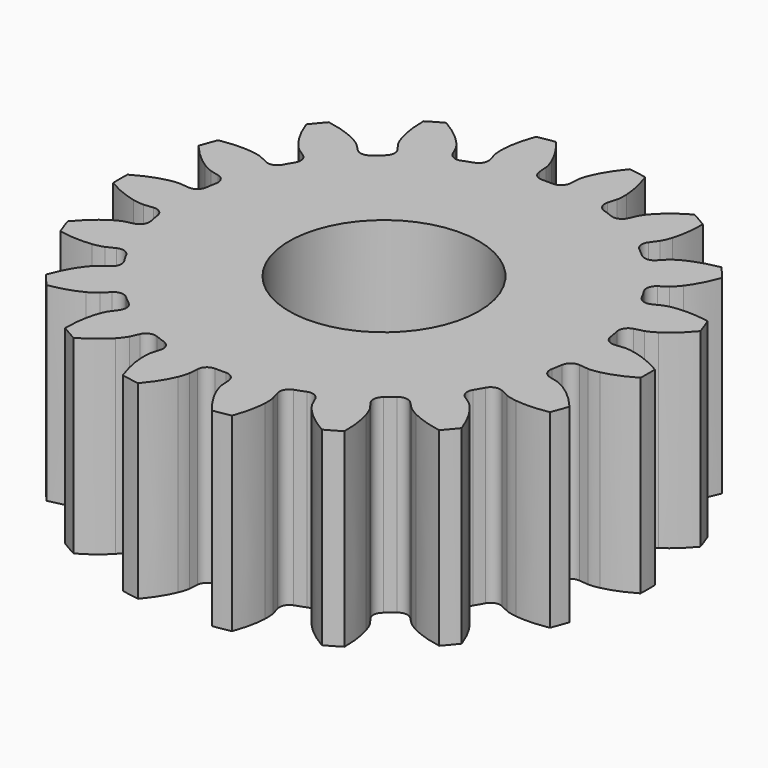
from build123d import *

# Parameters (mm, degrees)
CYLINDER001_R     = 5
CYLINDER001_DEPTH = 10
PAD001_DEPTH      = 10


with BuildPart() as cylinder001:
    # Cylinder001 → Cylinder001 (new body)
    with BuildSketch(Plane.XY):
        Circle(CYLINDER001_R)
    extrude(amount=CYLINDER001_DEPTH)


with BuildPart() as cut001:
    # InvoluteGear001 → Pad001 (new body)
    with BuildSketch(Plane.XY):
        with BuildLine():
            Line((11.222882, -1.150658), (11.718405, -1.200406))
            add(Edge.make_bspline(
                [(11.718405, -1.200406), (11.78192, -1.202844), (11.973014, -1.202137), (12.292176, -1.132224)],
                knots=[0, 0, 0, 0, 1, 1, 1, 1], degree=3))
            add(Edge.make_bspline(
                [(12.292176, -1.132224), (12.673656, -1.047243), (13.221634, -0.864168), (13.893524, -0.473052)],
                knots=[0, 0, 0, 0, 1, 1, 1, 1], degree=3))
            ThreePointArc((13.893524, -0.473052), (13.901576, 0), (13.893524, 0.473052))
            add(Edge.make_bspline(
                [(13.893524, 0.473052), (13.221634, 0.864168), (12.673656, 1.047243), (12.292176, 1.132224)],
                knots=[0, 0, 0, 0, 1, 1, 1, 1], degree=3))
            add(Edge.make_bspline(
                [(12.292176, 1.132224), (11.973014, 1.202137), (11.78192, 1.202844), (11.718405, 1.200406)],
                knots=[0, 0, 0, 0, 1, 1, 1, 1], degree=3))
            Line((11.718405, 1.200406), (11.222882, 1.150658))
            ThreePointArc((11.222882, 1.150658), (10.850281, 1.257289), (10.654271, 1.591627))
            ThreePointArc((10.654271, 1.591627), (10.608842, 1.870625), (10.556108, 2.148335))
            ThreePointArc((10.556108, 2.148335), (10.625947, 2.529549), (10.939607, 2.757187))
            Line((10.939607, 2.757187), (11.422262, 2.879918))
            add(Edge.make_bspline(
                [(11.422262, 2.879918), (11.48278, 2.899351), (11.662108, 2.965373), (11.93811, 3.14023)],
                knots=[0, 0, 0, 0, 1, 1, 1, 1], degree=3))
            add(Edge.make_bspline(
                [(11.93811, 3.14023), (12.26752, 3.350559), (12.719835, 3.710013), (13.217436, 4.307341)],
                knots=[0, 0, 0, 0, 1, 1, 1, 1], degree=3))
            ThreePointArc((13.217436, 4.307341), (13.063209, 4.754619), (12.893849, 5.196389))
            add(Edge.make_bspline(
                [(12.893849, 5.196389), (12.128709, 5.334117), (11.551163, 5.318733), (11.163623, 5.268114)],
                knots=[0, 0, 0, 0, 1, 1, 1, 1], degree=3))
            add(Edge.make_bspline(
                [(11.163623, 5.268114), (10.839798, 5.224651), (10.659986, 5.159957), (10.601135, 5.135943)],
                knots=[0, 0, 0, 0, 1, 1, 1, 1], degree=3))
            Line((10.601135, 5.135943), (10.152511, 4.919716))
            ThreePointArc((10.152511, 4.919716), (9.765911, 4.89248), (9.467371, 5.139615))
            ThreePointArc((9.467371, 5.139615), (9.329259, 5.38625), (9.184723, 5.629176))
            ThreePointArc((9.184723, 5.629176), (9.119967, 6.011287), (9.336855, 6.332474))
            Line((9.336855, 6.332474), (9.748425, 6.612881))
            add(Edge.make_bspline(
                [(9.748425, 6.612881), (9.798647, 6.65184), (9.944579, 6.775215), (10.144132, 7.033925)],
                knots=[0, 0, 0, 0, 1, 1, 1, 1], degree=3))
            add(Edge.make_bspline(
                [(10.144132, 7.033925), (10.381739, 7.344234), (10.683836, 7.836712), (10.947129, 8.568206)],
                knots=[0, 0, 0, 0, 1, 1, 1, 1], degree=3))
            ThreePointArc((10.947129, 8.568206), (10.649225, 8.935761), (10.338985, 9.292964))
            add(Edge.make_bspline(
                [(10.338985, 9.292964), (9.572883, 9.160694), (9.035429, 8.948704), (8.688574, 8.768592)],
                knots=[0, 0, 0, 0, 1, 1, 1, 1], degree=3))
            add(Edge.make_bspline(
                [(8.688574, 8.768592), (8.399142, 8.616995), (8.252301, 8.494704), (8.205213, 8.45201)],
                knots=[0, 0, 0, 0, 1, 1, 1, 1], degree=3))
            Line((8.205213, 8.45201), (7.857597, 8.095384))
            ThreePointArc((7.857597, 8.095384), (7.503627, 7.937566), (7.138567, 8.06769))
            ThreePointArc((7.138567, 8.06769), (6.92443, 8.252214), (6.705524, 8.431056))
            ThreePointArc((6.705524, 8.431056), (6.513985, 8.767974), (6.60794, 9.143972))
            Line((6.60794, 9.143972), (6.898785, 9.548233))
            add(Edge.make_bspline(
                [(6.898785, 9.548233), (6.932653, 9.60202), (7.027588, 9.767866), (7.126622, 10.079225)],
                knots=[0, 0, 0, 0, 1, 1, 1, 1], degree=3))
            add(Edge.make_bspline(
                [(7.126622, 10.079225), (7.243768, 10.452087), (7.359208, 11.018187), (7.356438, 11.795619)],
                knots=[0, 0, 0, 0, 1, 1, 1, 1], degree=3))
            ThreePointArc((7.356438, 11.795619), (6.950788, 12.039118), (6.537087, 12.268671))
            add(Edge.make_bspline(
                [(6.537087, 12.268671), (5.862426, 11.882355), (5.429889, 11.49933), (5.165553, 11.211448)],
                knots=[0, 0, 0, 0, 1, 1, 1, 1], degree=3))
            add(Edge.make_bspline(
                [(5.165553, 11.211448), (4.945426, 10.970002), (4.849267, 10.804864), (4.81962, 10.748639)],
                knots=[0, 0, 0, 0, 1, 1, 1, 1], degree=3))
            Line((4.81962, 10.748639), (4.614942, 10.29463))
            ThreePointArc((4.614942, 10.29463), (4.336296, 10.025264), (3.948746, 10.022682))
            ThreePointArc((3.948746, 10.022682), (3.684412, 10.122839), (3.417541, 10.216025))
            ThreePointArc((3.417541, 10.216025), (3.12232, 10.467115), (3.08201, 10.852571))
            Line((3.08201, 10.852571), (3.217049, 11.331928))
            add(Edge.make_bspline(
                [(3.217049, 11.331928), (3.230479, 11.394054), (3.262966, 11.582368), (3.249536, 11.908821)],
                knots=[0, 0, 0, 0, 1, 1, 1, 1], degree=3))
            add(Edge.make_bspline(
                [(3.249536, 11.908821), (3.232091, 12.299263), (3.146952, 12.870707), (2.878451, 13.600306)],
                knots=[0, 0, 0, 0, 1, 1, 1, 1], degree=3))
            ThreePointArc((2.878451, 13.600306), (2.413983, 13.69038), (1.94672, 13.764595))
            add(Edge.make_bspline(
                [(1.94672, 13.764595), (1.444873, 13.170829), (1.169424, 12.662967), (1.019491, 12.302038)],
                knots=[0, 0, 0, 0, 1, 1, 1, 1], degree=3))
            add(Edge.make_bspline(
                [(1.019491, 12.302038), (0.895218, 11.999866), (0.861339, 11.811798), (0.85271, 11.748824)],
                knots=[0, 0, 0, 0, 1, 1, 1, 1], degree=3))
            Line((0.85271, 11.748824), (0.815656, 11.252191))
            ThreePointArc((0.815656, 11.252191), (0.645943, 10.903767), (0.282648, 10.768791))
            ThreePointArc((0.282648, 10.768791), (0, 10.7725), (-0.282648, 10.768791))
            ThreePointArc((-0.282648, 10.768791), (-0.645943, 10.903767), (-0.815656, 11.252191))
            Line((-0.815656, 11.252191), (-0.85271, 11.748824))
            add(Edge.make_bspline(
                [(-0.85271, 11.748824), (-0.861339, 11.811798), (-0.895218, 11.999866), (-1.019491, 12.302038)],
                knots=[0, 0, 0, 0, 1, 1, 1, 1], degree=3))
            add(Edge.make_bspline(
                [(-1.019491, 12.302038), (-1.169424, 12.662967), (-1.444873, 13.170829), (-1.94672, 13.764595)],
                knots=[0, 0, 0, 0, 1, 1, 1, 1], degree=3))
            ThreePointArc((-1.94672, 13.764595), (-2.413983, 13.69038), (-2.878451, 13.600306))
            add(Edge.make_bspline(
                [(-2.878451, 13.600306), (-3.146952, 12.870707), (-3.232091, 12.299263), (-3.249536, 11.908821)],
                knots=[0, 0, 0, 0, 1, 1, 1, 1], degree=3))
            add(Edge.make_bspline(
                [(-3.249536, 11.908821), (-3.262966, 11.582368), (-3.230479, 11.394054), (-3.217049, 11.331928)],
                knots=[0, 0, 0, 0, 1, 1, 1, 1], degree=3))
            Line((-3.217049, 11.331928), (-3.08201, 10.852571))
            ThreePointArc((-3.08201, 10.852571), (-3.12232, 10.467115), (-3.417541, 10.216025))
            ThreePointArc((-3.417541, 10.216025), (-3.684412, 10.122839), (-3.948746, 10.022682))
            ThreePointArc((-3.948746, 10.022682), (-4.336296, 10.025264), (-4.614942, 10.29463))
            Line((-4.614942, 10.29463), (-4.81962, 10.748639))
            add(Edge.make_bspline(
                [(-4.81962, 10.748639), (-4.849267, 10.804864), (-4.945426, 10.970002), (-5.165553, 11.211448)],
                knots=[0, 0, 0, 0, 1, 1, 1, 1], degree=3))
            add(Edge.make_bspline(
                [(-5.165553, 11.211448), (-5.429889, 11.49933), (-5.862426, 11.882355), (-6.537087, 12.268671)],
                knots=[0, 0, 0, 0, 1, 1, 1, 1], degree=3))
            ThreePointArc((-6.537087, 12.268671), (-6.950788, 12.039118), (-7.356438, 11.795619))
            add(Edge.make_bspline(
                [(-7.356438, 11.795619), (-7.359208, 11.018187), (-7.243768, 10.452087), (-7.126622, 10.079225)],
                knots=[0, 0, 0, 0, 1, 1, 1, 1], degree=3))
            add(Edge.make_bspline(
                [(-7.126622, 10.079225), (-7.027588, 9.767866), (-6.932653, 9.60202), (-6.898785, 9.548233)],
                knots=[0, 0, 0, 0, 1, 1, 1, 1], degree=3))
            Line((-6.898785, 9.548233), (-6.60794, 9.143972))
            ThreePointArc((-6.60794, 9.143972), (-6.513985, 8.767974), (-6.705524, 8.431056))
            ThreePointArc((-6.705524, 8.431056), (-6.92443, 8.252214), (-7.138567, 8.06769))
            ThreePointArc((-7.138567, 8.06769), (-7.503627, 7.937566), (-7.857597, 8.095384))
            Line((-7.857597, 8.095384), (-8.205213, 8.45201))
            add(Edge.make_bspline(
                [(-8.205213, 8.45201), (-8.252301, 8.494704), (-8.399142, 8.616995), (-8.688574, 8.768592)],
                knots=[0, 0, 0, 0, 1, 1, 1, 1], degree=3))
            add(Edge.make_bspline(
                [(-8.688574, 8.768592), (-9.035429, 8.948704), (-9.572883, 9.160694), (-10.338985, 9.292964)],
                knots=[0, 0, 0, 0, 1, 1, 1, 1], degree=3))
            ThreePointArc((-10.338985, 9.292964), (-10.649225, 8.935761), (-10.947129, 8.568206))
            add(Edge.make_bspline(
                [(-10.947129, 8.568206), (-10.683836, 7.836712), (-10.381739, 7.344234), (-10.144132, 7.033925)],
                knots=[0, 0, 0, 0, 1, 1, 1, 1], degree=3))
            add(Edge.make_bspline(
                [(-10.144132, 7.033925), (-9.944579, 6.775215), (-9.798647, 6.65184), (-9.748425, 6.612881)],
                knots=[0, 0, 0, 0, 1, 1, 1, 1], degree=3))
            Line((-9.748425, 6.612881), (-9.336855, 6.332474))
            ThreePointArc((-9.336855, 6.332474), (-9.119967, 6.011287), (-9.184723, 5.629176))
            ThreePointArc((-9.184723, 5.629176), (-9.329259, 5.38625), (-9.467371, 5.139615))
            ThreePointArc((-9.467371, 5.139615), (-9.765911, 4.89248), (-10.152511, 4.919716))
            Line((-10.152511, 4.919716), (-10.601135, 5.135943))
            add(Edge.make_bspline(
                [(-10.601135, 5.135943), (-10.659986, 5.159957), (-10.839798, 5.224651), (-11.163623, 5.268114)],
                knots=[0, 0, 0, 0, 1, 1, 1, 1], degree=3))
            add(Edge.make_bspline(
                [(-11.163623, 5.268114), (-11.551163, 5.318733), (-12.128709, 5.334117), (-12.893849, 5.196389)],
                knots=[0, 0, 0, 0, 1, 1, 1, 1], degree=3))
            ThreePointArc((-12.893849, 5.196389), (-13.063209, 4.754619), (-13.217436, 4.307341))
            add(Edge.make_bspline(
                [(-13.217436, 4.307341), (-12.719835, 3.710013), (-12.26752, 3.350559), (-11.93811, 3.14023)],
                knots=[0, 0, 0, 0, 1, 1, 1, 1], degree=3))
            add(Edge.make_bspline(
                [(-11.93811, 3.14023), (-11.662108, 2.965373), (-11.48278, 2.899351), (-11.422262, 2.879918)],
                knots=[0, 0, 0, 0, 1, 1, 1, 1], degree=3))
            Line((-11.422262, 2.879918), (-10.939607, 2.757187))
            ThreePointArc((-10.939607, 2.757187), (-10.625947, 2.529549), (-10.556108, 2.148335))
            ThreePointArc((-10.556108, 2.148335), (-10.608842, 1.870625), (-10.654271, 1.591627))
            ThreePointArc((-10.654271, 1.591627), (-10.850281, 1.257289), (-11.222882, 1.150658))
            Line((-11.222882, 1.150658), (-11.718405, 1.200406))
            add(Edge.make_bspline(
                [(-11.718405, 1.200406), (-11.78192, 1.202844), (-11.973014, 1.202137), (-12.292176, 1.132224)],
                knots=[0, 0, 0, 0, 1, 1, 1, 1], degree=3))
            add(Edge.make_bspline(
                [(-12.292176, 1.132224), (-12.673656, 1.047243), (-13.221634, 0.864168), (-13.893524, 0.473052)],
                knots=[0, 0, 0, 0, 1, 1, 1, 1], degree=3))
            ThreePointArc((-13.893524, 0.473052), (-13.901576, 0), (-13.893524, -0.473052))
            add(Edge.make_bspline(
                [(-13.893524, -0.473052), (-13.221634, -0.864168), (-12.673656, -1.047243), (-12.292176, -1.132224)],
                knots=[0, 0, 0, 0, 1, 1, 1, 1], degree=3))
            add(Edge.make_bspline(
                [(-12.292176, -1.132224), (-11.973014, -1.202137), (-11.78192, -1.202844), (-11.718405, -1.200406)],
                knots=[0, 0, 0, 0, 1, 1, 1, 1], degree=3))
            Line((-11.718405, -1.200406), (-11.222882, -1.150658))
            ThreePointArc((-11.222882, -1.150658), (-10.850281, -1.257289), (-10.654271, -1.591627))
            ThreePointArc((-10.654271, -1.591627), (-10.608842, -1.870625), (-10.556108, -2.148335))
            ThreePointArc((-10.556108, -2.148335), (-10.625947, -2.529549), (-10.939607, -2.757187))
            Line((-10.939607, -2.757187), (-11.422262, -2.879918))
            add(Edge.make_bspline(
                [(-11.422262, -2.879918), (-11.48278, -2.899351), (-11.662108, -2.965373), (-11.93811, -3.14023)],
                knots=[0, 0, 0, 0, 1, 1, 1, 1], degree=3))
            add(Edge.make_bspline(
                [(-11.93811, -3.14023), (-12.26752, -3.350559), (-12.719835, -3.710013), (-13.217436, -4.307341)],
                knots=[0, 0, 0, 0, 1, 1, 1, 1], degree=3))
            ThreePointArc((-13.217436, -4.307341), (-13.063209, -4.754619), (-12.893849, -5.196389))
            add(Edge.make_bspline(
                [(-12.893849, -5.196389), (-12.128709, -5.334117), (-11.551163, -5.318733), (-11.163623, -5.268114)],
                knots=[0, 0, 0, 0, 1, 1, 1, 1], degree=3))
            add(Edge.make_bspline(
                [(-11.163623, -5.268114), (-10.839798, -5.224651), (-10.659986, -5.159957), (-10.601135, -5.135943)],
                knots=[0, 0, 0, 0, 1, 1, 1, 1], degree=3))
            Line((-10.601135, -5.135943), (-10.152511, -4.919716))
            ThreePointArc((-10.152511, -4.919716), (-9.765911, -4.89248), (-9.467371, -5.139615))
            ThreePointArc((-9.467371, -5.139615), (-9.329259, -5.38625), (-9.184723, -5.629176))
            ThreePointArc((-9.184723, -5.629176), (-9.119967, -6.011287), (-9.336855, -6.332474))
            Line((-9.336855, -6.332474), (-9.748425, -6.612881))
            add(Edge.make_bspline(
                [(-9.748425, -6.612881), (-9.798647, -6.65184), (-9.944579, -6.775215), (-10.144132, -7.033925)],
                knots=[0, 0, 0, 0, 1, 1, 1, 1], degree=3))
            add(Edge.make_bspline(
                [(-10.144132, -7.033925), (-10.381739, -7.344234), (-10.683836, -7.836712), (-10.947129, -8.568206)],
                knots=[0, 0, 0, 0, 1, 1, 1, 1], degree=3))
            ThreePointArc((-10.947129, -8.568206), (-10.649225, -8.935761), (-10.338985, -9.292964))
            add(Edge.make_bspline(
                [(-10.338985, -9.292964), (-9.572883, -9.160694), (-9.035429, -8.948704), (-8.688574, -8.768592)],
                knots=[0, 0, 0, 0, 1, 1, 1, 1], degree=3))
            add(Edge.make_bspline(
                [(-8.688574, -8.768592), (-8.399142, -8.616995), (-8.252301, -8.494704), (-8.205213, -8.45201)],
                knots=[0, 0, 0, 0, 1, 1, 1, 1], degree=3))
            Line((-8.205213, -8.45201), (-7.857597, -8.095384))
            ThreePointArc((-7.857597, -8.095384), (-7.503627, -7.937566), (-7.138567, -8.06769))
            ThreePointArc((-7.138567, -8.06769), (-6.92443, -8.252214), (-6.705524, -8.431056))
            ThreePointArc((-6.705524, -8.431056), (-6.513985, -8.767974), (-6.60794, -9.143972))
            Line((-6.60794, -9.143972), (-6.898785, -9.548233))
            add(Edge.make_bspline(
                [(-6.898785, -9.548233), (-6.932653, -9.60202), (-7.027588, -9.767866), (-7.126622, -10.079225)],
                knots=[0, 0, 0, 0, 1, 1, 1, 1], degree=3))
            add(Edge.make_bspline(
                [(-7.126622, -10.079225), (-7.243768, -10.452087), (-7.359208, -11.018187), (-7.356438, -11.795619)],
                knots=[0, 0, 0, 0, 1, 1, 1, 1], degree=3))
            ThreePointArc((-7.356438, -11.795619), (-6.950788, -12.039118), (-6.537087, -12.268671))
            add(Edge.make_bspline(
                [(-6.537087, -12.268671), (-5.862426, -11.882355), (-5.429889, -11.49933), (-5.165553, -11.211448)],
                knots=[0, 0, 0, 0, 1, 1, 1, 1], degree=3))
            add(Edge.make_bspline(
                [(-5.165553, -11.211448), (-4.945426, -10.970002), (-4.849267, -10.804864), (-4.81962, -10.748639)],
                knots=[0, 0, 0, 0, 1, 1, 1, 1], degree=3))
            Line((-4.81962, -10.748639), (-4.614942, -10.29463))
            ThreePointArc((-4.614942, -10.29463), (-4.336296, -10.025264), (-3.948746, -10.022682))
            ThreePointArc((-3.948746, -10.022682), (-3.684412, -10.122839), (-3.417541, -10.216025))
            ThreePointArc((-3.417541, -10.216025), (-3.12232, -10.467115), (-3.08201, -10.852571))
            Line((-3.08201, -10.852571), (-3.217049, -11.331928))
            add(Edge.make_bspline(
                [(-3.217049, -11.331928), (-3.230479, -11.394054), (-3.262966, -11.582368), (-3.249536, -11.908821)],
                knots=[0, 0, 0, 0, 1, 1, 1, 1], degree=3))
            add(Edge.make_bspline(
                [(-3.249536, -11.908821), (-3.232091, -12.299263), (-3.146952, -12.870707), (-2.878451, -13.600306)],
                knots=[0, 0, 0, 0, 1, 1, 1, 1], degree=3))
            ThreePointArc((-2.878451, -13.600306), (-2.413983, -13.69038), (-1.94672, -13.764595))
            add(Edge.make_bspline(
                [(-1.94672, -13.764595), (-1.444873, -13.170829), (-1.169424, -12.662967), (-1.019491, -12.302038)],
                knots=[0, 0, 0, 0, 1, 1, 1, 1], degree=3))
            add(Edge.make_bspline(
                [(-1.019491, -12.302038), (-0.895218, -11.999866), (-0.861339, -11.811798), (-0.85271, -11.748824)],
                knots=[0, 0, 0, 0, 1, 1, 1, 1], degree=3))
            Line((-0.85271, -11.748824), (-0.815656, -11.252191))
            ThreePointArc((-0.815656, -11.252191), (-0.645943, -10.903767), (-0.282648, -10.768791))
            ThreePointArc((-0.282648, -10.768791), (0, -10.7725), (0.282648, -10.768791))
            ThreePointArc((0.282648, -10.768791), (0.645943, -10.903767), (0.815656, -11.252191))
            Line((0.815656, -11.252191), (0.85271, -11.748824))
            add(Edge.make_bspline(
                [(0.85271, -11.748824), (0.861339, -11.811798), (0.895218, -11.999866), (1.019491, -12.302038)],
                knots=[0, 0, 0, 0, 1, 1, 1, 1], degree=3))
            add(Edge.make_bspline(
                [(1.019491, -12.302038), (1.169424, -12.662967), (1.444873, -13.170829), (1.94672, -13.764595)],
                knots=[0, 0, 0, 0, 1, 1, 1, 1], degree=3))
            ThreePointArc((1.94672, -13.764595), (2.413983, -13.69038), (2.878451, -13.600306))
            add(Edge.make_bspline(
                [(2.878451, -13.600306), (3.146952, -12.870707), (3.232091, -12.299263), (3.249536, -11.908821)],
                knots=[0, 0, 0, 0, 1, 1, 1, 1], degree=3))
            add(Edge.make_bspline(
                [(3.249536, -11.908821), (3.262966, -11.582368), (3.230479, -11.394054), (3.217049, -11.331928)],
                knots=[0, 0, 0, 0, 1, 1, 1, 1], degree=3))
            Line((3.217049, -11.331928), (3.08201, -10.852571))
            ThreePointArc((3.08201, -10.852571), (3.12232, -10.467115), (3.417541, -10.216025))
            ThreePointArc((3.417541, -10.216025), (3.684412, -10.122839), (3.948746, -10.022682))
            ThreePointArc((3.948746, -10.022682), (4.336296, -10.025264), (4.614942, -10.29463))
            Line((4.614942, -10.29463), (4.81962, -10.748639))
            add(Edge.make_bspline(
                [(4.81962, -10.748639), (4.849267, -10.804864), (4.945426, -10.970002), (5.165553, -11.211448)],
                knots=[0, 0, 0, 0, 1, 1, 1, 1], degree=3))
            add(Edge.make_bspline(
                [(5.165553, -11.211448), (5.429889, -11.49933), (5.862426, -11.882355), (6.537087, -12.268671)],
                knots=[0, 0, 0, 0, 1, 1, 1, 1], degree=3))
            ThreePointArc((6.537087, -12.268671), (6.950788, -12.039118), (7.356438, -11.795619))
            add(Edge.make_bspline(
                [(7.356438, -11.795619), (7.359208, -11.018187), (7.243768, -10.452087), (7.126622, -10.079225)],
                knots=[0, 0, 0, 0, 1, 1, 1, 1], degree=3))
            add(Edge.make_bspline(
                [(7.126622, -10.079225), (7.027588, -9.767866), (6.932653, -9.60202), (6.898785, -9.548233)],
                knots=[0, 0, 0, 0, 1, 1, 1, 1], degree=3))
            Line((6.898785, -9.548233), (6.60794, -9.143972))
            ThreePointArc((6.60794, -9.143972), (6.513985, -8.767974), (6.705524, -8.431056))
            ThreePointArc((6.705524, -8.431056), (6.92443, -8.252214), (7.138567, -8.06769))
            ThreePointArc((7.138567, -8.06769), (7.503627, -7.937566), (7.857597, -8.095384))
            Line((7.857597, -8.095384), (8.205213, -8.45201))
            add(Edge.make_bspline(
                [(8.205213, -8.45201), (8.252301, -8.494704), (8.399142, -8.616995), (8.688574, -8.768592)],
                knots=[0, 0, 0, 0, 1, 1, 1, 1], degree=3))
            add(Edge.make_bspline(
                [(8.688574, -8.768592), (9.035429, -8.948704), (9.572883, -9.160694), (10.338985, -9.292964)],
                knots=[0, 0, 0, 0, 1, 1, 1, 1], degree=3))
            ThreePointArc((10.338985, -9.292964), (10.649225, -8.935761), (10.947129, -8.568206))
            add(Edge.make_bspline(
                [(10.947129, -8.568206), (10.683836, -7.836712), (10.381739, -7.344234), (10.144132, -7.033925)],
                knots=[0, 0, 0, 0, 1, 1, 1, 1], degree=3))
            add(Edge.make_bspline(
                [(10.144132, -7.033925), (9.944579, -6.775215), (9.798647, -6.65184), (9.748425, -6.612881)],
                knots=[0, 0, 0, 0, 1, 1, 1, 1], degree=3))
            Line((9.748425, -6.612881), (9.336855, -6.332474))
            ThreePointArc((9.336855, -6.332474), (9.119967, -6.011287), (9.184723, -5.629176))
            ThreePointArc((9.184723, -5.629176), (9.329259, -5.38625), (9.467371, -5.139615))
            ThreePointArc((9.467371, -5.139615), (9.765911, -4.89248), (10.152511, -4.919716))
            Line((10.152511, -4.919716), (10.601135, -5.135943))
            add(Edge.make_bspline(
                [(10.601135, -5.135943), (10.659986, -5.159957), (10.839798, -5.224651), (11.163623, -5.268114)],
                knots=[0, 0, 0, 0, 1, 1, 1, 1], degree=3))
            add(Edge.make_bspline(
                [(11.163623, -5.268114), (11.551163, -5.318733), (12.128709, -5.334117), (12.893849, -5.196389)],
                knots=[0, 0, 0, 0, 1, 1, 1, 1], degree=3))
            ThreePointArc((12.893849, -5.196389), (13.063209, -4.754619), (13.217436, -4.307341))
            add(Edge.make_bspline(
                [(13.217436, -4.307341), (12.719835, -3.710013), (12.26752, -3.350559), (11.93811, -3.14023)],
                knots=[0, 0, 0, 0, 1, 1, 1, 1], degree=3))
            add(Edge.make_bspline(
                [(11.93811, -3.14023), (11.662108, -2.965373), (11.48278, -2.899351), (11.422262, -2.879918)],
                knots=[0, 0, 0, 0, 1, 1, 1, 1], degree=3))
            Line((11.422262, -2.879918), (10.939607, -2.757187))
            ThreePointArc((10.939607, -2.757187), (10.625947, -2.529549), (10.556108, -2.148335))
            ThreePointArc((10.556108, -2.148335), (10.608842, -1.870625), (10.654271, -1.591627))
            ThreePointArc((10.654271, -1.591627), (10.850281, -1.257289), (11.222882, -1.150658))
        make_face()
    extrude(amount=PAD001_DEPTH)

    # Cut001: cut Cylinder001
    add(cylinder001.part, mode=Mode.SUBTRACT)


solid = cut001.part
